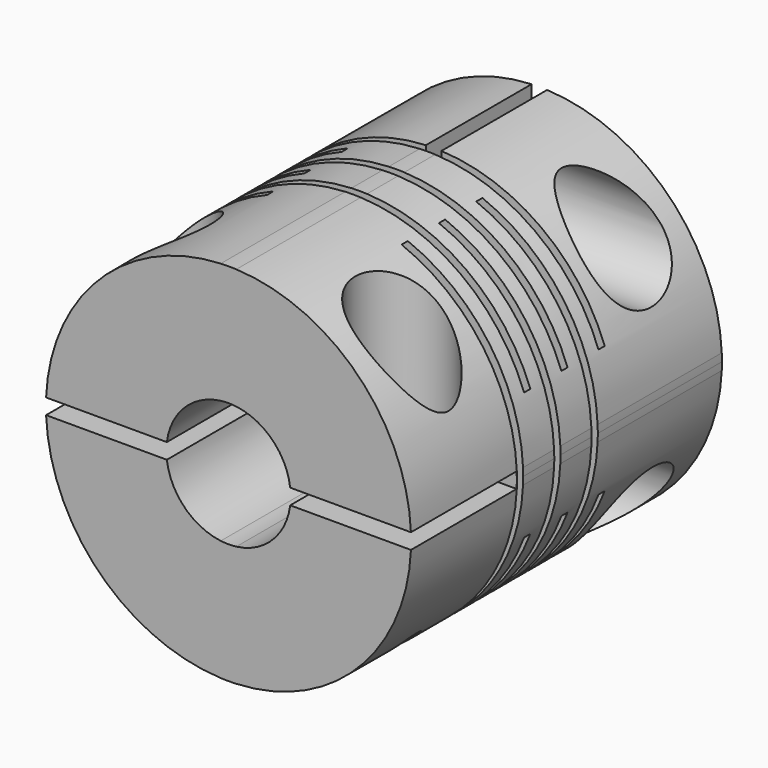
from build123d import *

# Parameters (mm, degrees)
F1_DEPTH       = 25
F2_DEPTH       = 17
F3_DEPTH       = 8.5
F4_START       = 16.5
F4_DEPTH       = 8.5
F5_R           = 3
F6_DEPTH       = 3
F6_DEPTH_BACK  = 25
F7_R           = 3
F8_DEPTH       = 25
F9_W           = 0.5
F9_H           = 22.1550837159
F10_DEPTH      = 25
F10_DEPTH_BACK = 25
F11_W          = 22
F11_H          = 0.5
F12_DEPTH      = 25
F12_DEPTH_BACK = 25
F13_R          = 1
F14_DEPTH      = 25
F15_R          = 1
F16_DEPTH      = 25


with BuildPart() as f1:
    # F0 (on Front) → F1 (new body)
    with BuildSketch(Plane.XZ):
        with BuildLine():
            ThreePointArc((11.7393568819, -0.5), (11.7473389191, -0.2500566316), (11.75, 0))
            ThreePointArc((11.75, 0), (11.7473389191, 0.2500566316), (11.7393568819, 0.5))
            Line((11.7393568819, 0.5), (11.7393568819, -0.5))
        make_face()
        with BuildLine():
            Line((4.9749371855, 0.5), (11.7393568819, 0.5))
            ThreePointArc((11.7393568819, 0.5), (8.3085046789, 8.3085046789), (0.5, 11.7393568819))
            Line((0.5, 11.7393568819), (0.5, 4.9749371855))
            ThreePointArc((0.5, 4.9749371855), (3.5355339059, 3.5355339059), (4.9749371855, 0.5))
        make_face()
        with BuildLine():
            Line((11.7393568819, -0.5), (11.7393568819, 0.5))
            Line((11.7393568819, 0.5), (4.9749371855, 0.5))
            ThreePointArc((4.9749371855, 0.5), (4.9937303656, 0.2503138753), (5, 0))
            ThreePointArc((5, 0), (4.9937303656, -0.2503138753), (4.9749371855, -0.5))
            Line((4.9749371855, -0.5), (11.7393568819, -0.5))
        make_face()
        with BuildLine():
            ThreePointArc((0.5, -11.7393568819), (8.3085046789, -8.3085046789), (11.7393568819, -0.5))
            Line((11.7393568819, -0.5), (4.9749371855, -0.5))
            ThreePointArc((4.9749371855, -0.5), (3.5355339059, -3.5355339059), (0.5, -4.9749371855))
            Line((0.5, -4.9749371855), (0.5, -11.7393568819))
        make_face()
        with BuildLine():
            Line((-0.5, 11.7393568819), (0.5, 11.7393568819))
            ThreePointArc((0.5, 11.7393568819), (0, 11.75), (-0.5, 11.7393568819))
        make_face()
        with BuildLine():
            Line((0.5, 4.9749371855), (0.5, 11.7393568819))
            Line((0.5, 11.7393568819), (-0.5, 11.7393568819))
            Line((-0.5, 11.7393568819), (-0.5, 4.9749371855))
            ThreePointArc((-0.5, 4.9749371855), (0, 5), (0.5, 4.9749371855))
        make_face()
        with BuildLine():
            ThreePointArc((-0.5, -11.7393568819), (0, -11.75), (0.5, -11.7393568819))
            Line((0.5, -11.7393568819), (-0.5, -11.7393568819))
        make_face()
        with BuildLine():
            Line((-0.5, -11.7393568819), (0.5, -11.7393568819))
            Line((0.5, -11.7393568819), (0.5, -4.9749371855))
            ThreePointArc((0.5, -4.9749371855), (0, -5), (-0.5, -4.9749371855))
            Line((-0.5, -4.9749371855), (-0.5, -11.7393568819))
        make_face()
        with BuildLine():
            Line((-0.5, 4.9749371855), (-0.5, 11.7393568819))
            ThreePointArc((-0.5, 11.7393568819), (-8.3085046789, 8.3085046789), (-11.7393568819, 0.5))
            Line((-11.7393568819, 0.5), (-4.9749371855, 0.5))
            ThreePointArc((-4.9749371855, 0.5), (-3.5355339059, 3.5355339059), (-0.5, 4.9749371855))
        make_face()
        with BuildLine():
            ThreePointArc((-11.7393568819, -0.5), (-8.3085046789, -8.3085046789), (-0.5, -11.7393568819))
            Line((-0.5, -11.7393568819), (-0.5, -4.9749371855))
            ThreePointArc((-0.5, -4.9749371855), (-3.5355339059, -3.5355339059), (-4.9749371855, -0.5))
            Line((-4.9749371855, -0.5), (-11.7393568819, -0.5))
        make_face()
        with BuildLine():
            Line((-4.9749371855, 0.5), (-11.7393568819, 0.5))
            ThreePointArc((-11.7393568819, 0.5), (-11.7473389191, 0.2500566316), (-11.75, 0))
            ThreePointArc((-11.75, 0), (-11.7473389191, -0.2500566316), (-11.7393568819, -0.5))
            Line((-11.7393568819, -0.5), (-4.9749371855, -0.5))
            ThreePointArc((-4.9749371855, -0.5), (-5, 0), (-4.9749371855, 0.5))
        make_face()
        with BuildLine():
            Line((3.9686269666, 0.5), (4.9749371855, 0.5))
            ThreePointArc((4.9749371855, 0.5), (3.5355339059, 3.5355339059), (0.5, 4.9749371855))
            Line((0.5, 4.9749371855), (0.5, 3.9686269666))
            ThreePointArc((0.5, 3.9686269666), (2.8284271247, 2.8284271247), (3.9686269666, 0.5))
        make_face()
        with BuildLine():
            Line((0.5, 3.9686269666), (0.5, 4.9749371855))
            ThreePointArc((0.5, 4.9749371855), (0, 5), (-0.5, 4.9749371855))
            Line((-0.5, 4.9749371855), (-0.5, 3.9686269666))
            ThreePointArc((-0.5, 3.9686269666), (0, 4), (0.5, 3.9686269666))
        make_face()
        with BuildLine():
            Line((-0.5, 3.9686269666), (-0.5, 4.9749371855))
            ThreePointArc((-0.5, 4.9749371855), (-3.5355339059, 3.5355339059), (-4.9749371855, 0.5))
            Line((-4.9749371855, 0.5), (-3.9686269666, 0.5))
            ThreePointArc((-3.9686269666, 0.5), (-2.8284271247, 2.8284271247), (-0.5, 3.9686269666))
        make_face()
        with BuildLine():
            Line((-3.9686269666, 0.5), (-4.9749371855, 0.5))
            ThreePointArc((-4.9749371855, 0.5), (-5, 0), (-4.9749371855, -0.5))
            Line((-4.9749371855, -0.5), (-3.9686269666, -0.5))
            ThreePointArc((-3.9686269666, -0.5), (-4, 0), (-3.9686269666, 0.5))
        make_face()
        with BuildLine():
            ThreePointArc((-4.9749371855, -0.5), (-3.5355339059, -3.5355339059), (-0.5, -4.9749371855))
            Line((-0.5, -4.9749371855), (-0.5, -3.9686269666))
            ThreePointArc((-0.5, -3.9686269666), (-2.8284271247, -2.8284271247), (-3.9686269666, -0.5))
            Line((-3.9686269666, -0.5), (-4.9749371855, -0.5))
        make_face()
        with BuildLine():
            ThreePointArc((-0.5, -4.9749371855), (0, -5), (0.5, -4.9749371855))
            Line((0.5, -4.9749371855), (0.5, -3.9686269666))
            ThreePointArc((0.5, -3.9686269666), (0, -4), (-0.5, -3.9686269666))
            Line((-0.5, -3.9686269666), (-0.5, -4.9749371855))
        make_face()
        with BuildLine():
            ThreePointArc((0.5, -4.9749371855), (3.5355339059, -3.5355339059), (4.9749371855, -0.5))
            Line((4.9749371855, -0.5), (3.9686269666, -0.5))
            ThreePointArc((3.9686269666, -0.5), (2.8284271247, -2.8284271247), (0.5, -3.9686269666))
            Line((0.5, -3.9686269666), (0.5, -4.9749371855))
        make_face()
        with BuildLine():
            ThreePointArc((5, 0), (4.9937303656, 0.2503138753), (4.9749371855, 0.5))
            Line((4.9749371855, 0.5), (3.9686269666, 0.5))
            ThreePointArc((3.9686269666, 0.5), (3.9921490369, 0.2504916502), (4, 0))
            ThreePointArc((4, 0), (3.9921490369, -0.2504916502), (3.9686269666, -0.5))
            Line((3.9686269666, -0.5), (4.9749371855, -0.5))
            ThreePointArc((4.9749371855, -0.5), (4.9937303656, -0.2503138753), (5, 0))
        make_face()
    extrude(amount=F1_DEPTH)

    # F0 (on Front) → F2 (cut)
    with BuildSketch(Plane.XZ):
        with BuildLine():
            Line((3.9686269666, 0.5), (4.9749371855, 0.5))
            ThreePointArc((4.9749371855, 0.5), (3.5355339059, 3.5355339059), (0.5, 4.9749371855))
            Line((0.5, 4.9749371855), (0.5, 3.9686269666))
            ThreePointArc((0.5, 3.9686269666), (2.8284271247, 2.8284271247), (3.9686269666, 0.5))
        make_face()
        with BuildLine():
            Line((0.5, 3.9686269666), (0.5, 4.9749371855))
            ThreePointArc((0.5, 4.9749371855), (0, 5), (-0.5, 4.9749371855))
            Line((-0.5, 4.9749371855), (-0.5, 3.9686269666))
            ThreePointArc((-0.5, 3.9686269666), (0, 4), (0.5, 3.9686269666))
        make_face()
        with BuildLine():
            Line((-0.5, 3.9686269666), (-0.5, 4.9749371855))
            ThreePointArc((-0.5, 4.9749371855), (-3.5355339059, 3.5355339059), (-4.9749371855, 0.5))
            Line((-4.9749371855, 0.5), (-3.9686269666, 0.5))
            ThreePointArc((-3.9686269666, 0.5), (-2.8284271247, 2.8284271247), (-0.5, 3.9686269666))
        make_face()
        with BuildLine():
            Line((-3.9686269666, 0.5), (-4.9749371855, 0.5))
            ThreePointArc((-4.9749371855, 0.5), (-5, 0), (-4.9749371855, -0.5))
            Line((-4.9749371855, -0.5), (-3.9686269666, -0.5))
            ThreePointArc((-3.9686269666, -0.5), (-4, 0), (-3.9686269666, 0.5))
        make_face()
        with BuildLine():
            ThreePointArc((-4.9749371855, -0.5), (-3.5355339059, -3.5355339059), (-0.5, -4.9749371855))
            Line((-0.5, -4.9749371855), (-0.5, -3.9686269666))
            ThreePointArc((-0.5, -3.9686269666), (-2.8284271247, -2.8284271247), (-3.9686269666, -0.5))
            Line((-3.9686269666, -0.5), (-4.9749371855, -0.5))
        make_face()
        with BuildLine():
            ThreePointArc((-0.5, -4.9749371855), (0, -5), (0.5, -4.9749371855))
            Line((0.5, -4.9749371855), (0.5, -3.9686269666))
            ThreePointArc((0.5, -3.9686269666), (0, -4), (-0.5, -3.9686269666))
            Line((-0.5, -3.9686269666), (-0.5, -4.9749371855))
        make_face()
        with BuildLine():
            ThreePointArc((0.5, -4.9749371855), (3.5355339059, -3.5355339059), (4.9749371855, -0.5))
            Line((4.9749371855, -0.5), (3.9686269666, -0.5))
            ThreePointArc((3.9686269666, -0.5), (2.8284271247, -2.8284271247), (0.5, -3.9686269666))
            Line((0.5, -3.9686269666), (0.5, -4.9749371855))
        make_face()
        with BuildLine():
            ThreePointArc((5, 0), (4.9937303656, 0.2503138753), (4.9749371855, 0.5))
            Line((4.9749371855, 0.5), (3.9686269666, 0.5))
            ThreePointArc((3.9686269666, 0.5), (3.9921490369, 0.2504916502), (4, 0))
            ThreePointArc((4, 0), (3.9921490369, -0.2504916502), (3.9686269666, -0.5))
            Line((3.9686269666, -0.5), (4.9749371855, -0.5))
            ThreePointArc((4.9749371855, -0.5), (4.9937303656, -0.2503138753), (5, 0))
        make_face()
    extrude(amount=F2_DEPTH, mode=Mode.SUBTRACT)

    # F0 (on Front) → F3 (cut)
    with BuildSketch(Plane.XZ):
        with BuildLine():
            Line((0.5, 4.9749371855), (0.5, 11.7393568819))
            Line((0.5, 11.7393568819), (-0.5, 11.7393568819))
            Line((-0.5, 11.7393568819), (-0.5, 4.9749371855))
            ThreePointArc((-0.5, 4.9749371855), (0, 5), (0.5, 4.9749371855))
        make_face()
        with BuildLine():
            Line((-0.5, -11.7393568819), (0.5, -11.7393568819))
            Line((0.5, -11.7393568819), (0.5, -4.9749371855))
            ThreePointArc((0.5, -4.9749371855), (0, -5), (-0.5, -4.9749371855))
            Line((-0.5, -4.9749371855), (-0.5, -11.7393568819))
        make_face()
        with BuildLine():
            ThreePointArc((-0.5, -11.7393568819), (0, -11.75), (0.5, -11.7393568819))
            Line((0.5, -11.7393568819), (-0.5, -11.7393568819))
        make_face()
        with BuildLine():
            Line((-0.5, 11.7393568819), (0.5, 11.7393568819))
            ThreePointArc((0.5, 11.7393568819), (0, 11.75), (-0.5, 11.7393568819))
        make_face()
    extrude(amount=F3_DEPTH, mode=Mode.SUBTRACT)

    # F0 (on Front) → F4 (cut)
    with BuildSketch(Plane.XZ.offset(F4_START)):
        with BuildLine():
            Line((-4.9749371855, 0.5), (-11.7393568819, 0.5))
            ThreePointArc((-11.7393568819, 0.5), (-11.7473389191, 0.2500566316), (-11.75, 0))
            ThreePointArc((-11.75, 0), (-11.7473389191, -0.2500566316), (-11.7393568819, -0.5))
            Line((-11.7393568819, -0.5), (-4.9749371855, -0.5))
            ThreePointArc((-4.9749371855, -0.5), (-5, 0), (-4.9749371855, 0.5))
        make_face()
        with BuildLine():
            Line((-3.9686269666, 0.5), (-4.9749371855, 0.5))
            ThreePointArc((-4.9749371855, 0.5), (-5, 0), (-4.9749371855, -0.5))
            Line((-4.9749371855, -0.5), (-3.9686269666, -0.5))
            ThreePointArc((-3.9686269666, -0.5), (-4, 0), (-3.9686269666, 0.5))
        make_face()
        with BuildLine():
            ThreePointArc((5, 0), (4.9937303656, 0.2503138753), (4.9749371855, 0.5))
            Line((4.9749371855, 0.5), (3.9686269666, 0.5))
            ThreePointArc((3.9686269666, 0.5), (3.9921490369, 0.2504916502), (4, 0))
            ThreePointArc((4, 0), (3.9921490369, -0.2504916502), (3.9686269666, -0.5))
            Line((3.9686269666, -0.5), (4.9749371855, -0.5))
            ThreePointArc((4.9749371855, -0.5), (4.9937303656, -0.2503138753), (5, 0))
        make_face()
        with BuildLine():
            Line((11.7393568819, -0.5), (11.7393568819, 0.5))
            Line((11.7393568819, 0.5), (4.9749371855, 0.5))
            ThreePointArc((4.9749371855, 0.5), (4.9937303656, 0.2503138753), (5, 0))
            ThreePointArc((5, 0), (4.9937303656, -0.2503138753), (4.9749371855, -0.5))
            Line((4.9749371855, -0.5), (11.7393568819, -0.5))
        make_face()
        with BuildLine():
            ThreePointArc((11.7393568819, -0.5), (11.7473389191, -0.2500566316), (11.75, 0))
            ThreePointArc((11.75, 0), (11.7473389191, 0.2500566316), (11.7393568819, 0.5))
            Line((11.7393568819, 0.5), (11.7393568819, -0.5))
        make_face()
    extrude(amount=F4_DEPTH, mode=Mode.SUBTRACT)

    # F5 (on Right) → F6 (cut, two sides)
    with BuildSketch(Plane.YZ) as f6_sk:
        with Locations((-4.5, 7.6191658154)):
            Circle(F5_R)
        with Locations((-4.5, -7.4135062036)):
            Circle(F5_R)
    extrude(amount=-F6_DEPTH, mode=Mode.SUBTRACT)
    extrude(f6_sk.sketch, amount=F6_DEPTH_BACK, mode=Mode.SUBTRACT)

    # F7 (on Top) → F8 (cut)
    with BuildSketch(Plane.XY):
        with Locations((-7.7817254258, -20.5)):
            Circle(F7_R)
        with Locations((7.5564733706, -20.5)):
            Circle(F7_R)
    extrude(amount=F8_DEPTH, mode=Mode.SUBTRACT)

    # F9 (on Right) → F10 (cut, two sides)
    with BuildSketch(Plane.YZ) as f10_sk:
        with Locations((-16.2352887392, -0.1534689218)):
            Rectangle(F9_W, F9_H)
        with Locations((-13.2352887392, -0.1534689218)):
            Rectangle(F9_W, F9_H)
        with Locations((-10.2352887392, -0.1534689218)):
            Rectangle(F9_W, F9_H)
    extrude(amount=-F10_DEPTH, mode=Mode.SUBTRACT)
    extrude(f10_sk.sketch, amount=F10_DEPTH_BACK, mode=Mode.SUBTRACT)

    # F11 (on Top) → F12 (cut, two sides)
    with BuildSketch(Plane.XY) as f12_sk:
        with Locations((0.0091669485, -14.7352887392)):
            Rectangle(F11_W, F11_H)
        with Locations((0.0091669485, -11.7352887392)):
            Rectangle(F11_W, F11_H)
        with Locations((0.0091669485, -8.75)):
            Rectangle(F11_W, F11_H)
    extrude(amount=-F12_DEPTH, mode=Mode.SUBTRACT)
    extrude(f12_sk.sketch, amount=F12_DEPTH_BACK, mode=Mode.SUBTRACT)

    # F13 (on face) → F14 (cut)
    with BuildSketch(Plane.YZ.offset(-3)):
        with Locations((-4.5, -7.4135062036)):
            Circle(F13_R)
        with Locations((-4.5, 7.6191658154)):
            Circle(F13_R)
    extrude(amount=-F14_DEPTH, mode=Mode.SUBTRACT)

    # F15 (on face) → F16 (cut)
    with BuildSketch(Plane.XY.offset(-0.5)):
        with Locations((7.5564733706, -20.5)):
            Circle(F15_R)
        with Locations((-7.7817254258, -20.5)):
            Circle(F15_R)
    extrude(amount=-F16_DEPTH, mode=Mode.SUBTRACT)


solid = f1.part
